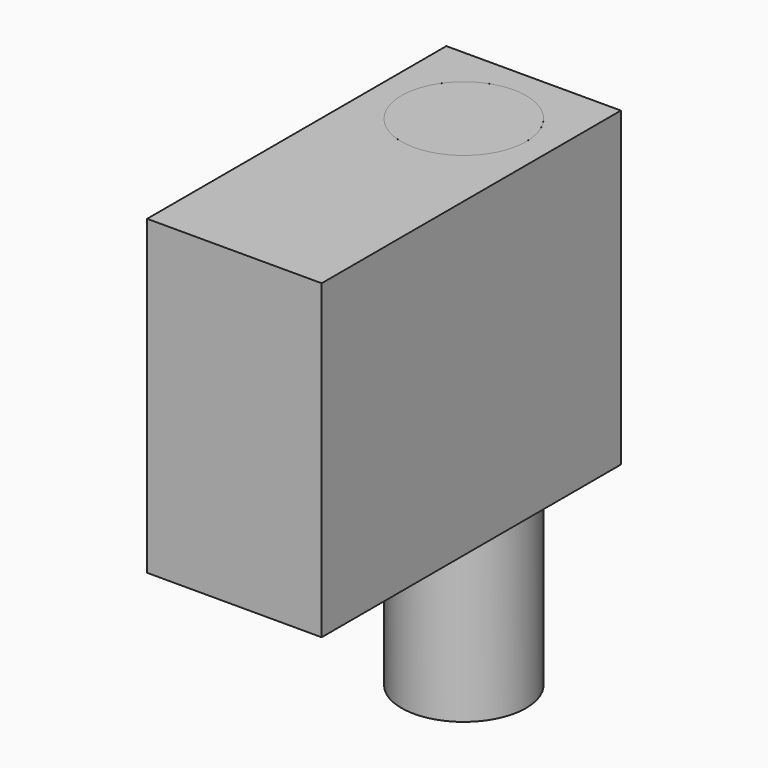
from build123d import *

# Parameters (mm, degrees)
F0_R     = 5
F1_DEPTH = 15
F4_DEPTH = 25
F2_R     = 5
F5_DEPTH = 25


with BuildPart() as f1:
    # F0 (on Top) → F1 (new body)
    with BuildSketch(Plane.XY):
        Circle(F0_R)
    extrude(amount=F1_DEPTH)


with BuildPart() as f4:
    # F3 (on face) → F4 (new body)
    with BuildSketch(Plane.XY.offset(15)):
        Polygon((7, 7), (0, 7), (-7, 7), (-7, -23), (7, -23), align=None)
        with BuildLine():
            ThreePointArc((5, 0), (-3.535534, -3.535534), (0, 5))
            ThreePointArc((0, 5), (3.535534, 3.535534), (5, 0))
        make_face(mode=Mode.SUBTRACT)
    extrude(amount=F4_DEPTH)


with BuildPart() as f5:
    # F2 (on face) → F5 (new body)
    with BuildSketch(Plane.XY.offset(15)):
        Circle(F2_R)
    extrude(amount=F5_DEPTH)


solid = Compound([f1.part, f4.part, f5.part])
